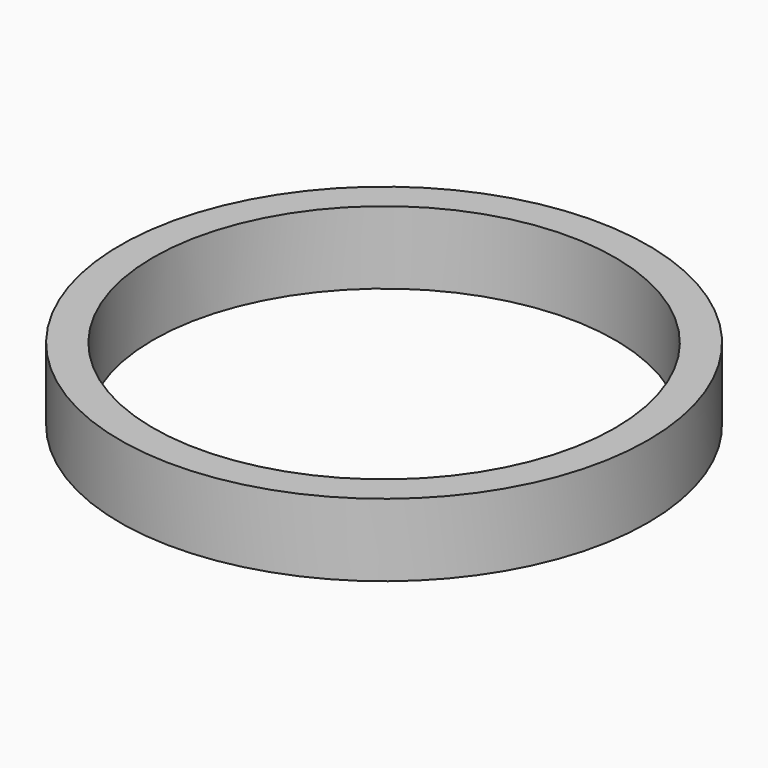
from build123d import *

# Parameters (mm, degrees)
SKETCH_R   = 40
SKETCH_R_2 = 35
PAD_DEPTH  = 11


with BuildPart() as part:
    # Sketch → Pad (new body)
    with BuildSketch(Plane.XY):
        Circle(SKETCH_R)
        Circle(SKETCH_R_2, mode=Mode.SUBTRACT)
    extrude(amount=PAD_DEPTH)


solid = part.part
